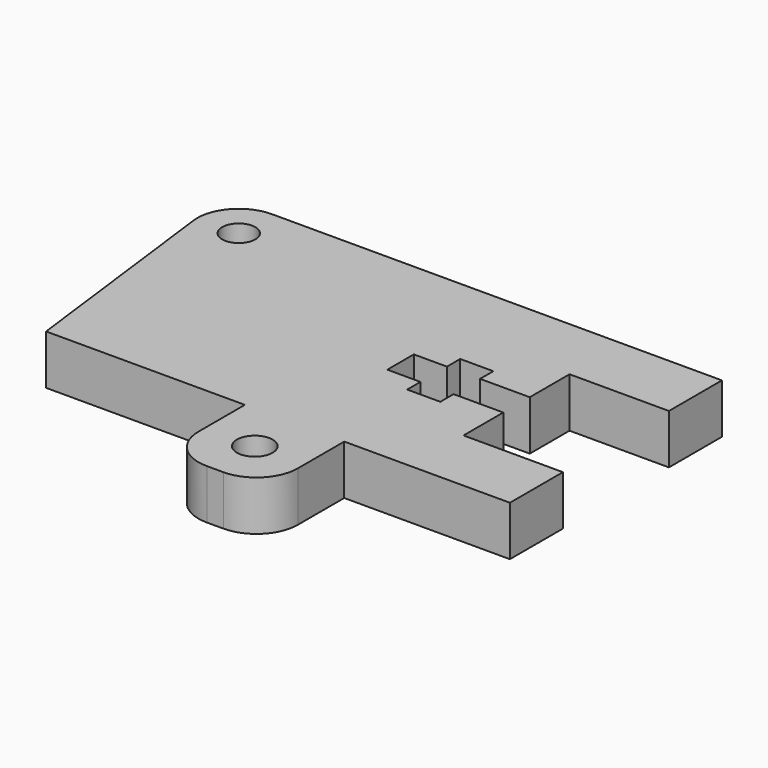
from build123d import *

# Parameters (mm, degrees)
F0_R     = 2.734931
F0_R_2   = 2.544482
F1_DEPTH = 7.62


with BuildPart() as f1:
    # F0 (on Top) → F1 (new body)
    with BuildSketch(Plane.XY):
        with BuildLine():
            Line((15.24, 42.192222), (-53.766833, 42.192222))
            ThreePointArc((-53.766833, 42.192222), (-58.527289, 40.044669), (-60.067797, 35.054602))
            Line((-60.067797, 35.054602), (-55.88, 1.552223))
            Line((-55.88, 1.552223), (-25.4, 1.552223))
            Line((-25.4, 1.552223), (-25.4, -7.337777))
            ThreePointArc((-25.4, -7.337777), (-23.540128, -11.827905), (-19.05, -13.687777))
            Line((-19.05, -13.687777), (-16.51, -13.687777))
            ThreePointArc((-16.51, -13.687777), (-12.019872, -11.827905), (-10.16, -7.337777))
            Line((-10.16, -7.337777), (-10.16, 1.552223))
            Line((-10.16, 1.552223), (15.24, 1.552223))
            Line((15.24, 1.552223), (15.24, 11.712223))
            Line((15.24, 11.712223), (0, 11.712223))
            Line((0, 11.712223), (0, 19.332223))
            Line((0, 19.332223), (-7.62, 19.332223))
            Line((-7.62, 19.332223), (-7.62, 16.792223))
            Line((-7.62, 16.792223), (-12.7, 16.792223))
            Line((-12.7, 16.792223), (-12.7, 19.332223))
            Line((-12.7, 19.332223), (-17.78, 19.332223))
            Line((-17.78, 19.332223), (-17.78, 24.412223))
            Line((-17.78, 24.412223), (-12.7, 24.412223))
            Line((-12.7, 24.412223), (-12.7, 26.952223))
            Line((-12.7, 26.952223), (-7.62, 26.952223))
            Line((-7.62, 26.952223), (-7.62, 24.412223))
            Line((-7.62, 24.412223), (0, 24.412223))
            Line((0, 24.412223), (0, 32.032222))
            Line((0, 32.032222), (15.24, 32.032222))
            Line((15.24, 32.032222), (15.24, 42.192222))
        make_face()
        with Locations((-17.78, -6.067777)):
            Circle(F0_R, mode=Mode.SUBTRACT)
        with Locations((-53.766833, 35.842222)):
            Circle(F0_R_2, mode=Mode.SUBTRACT)
    extrude(amount=F1_DEPTH)


solid = f1.part
